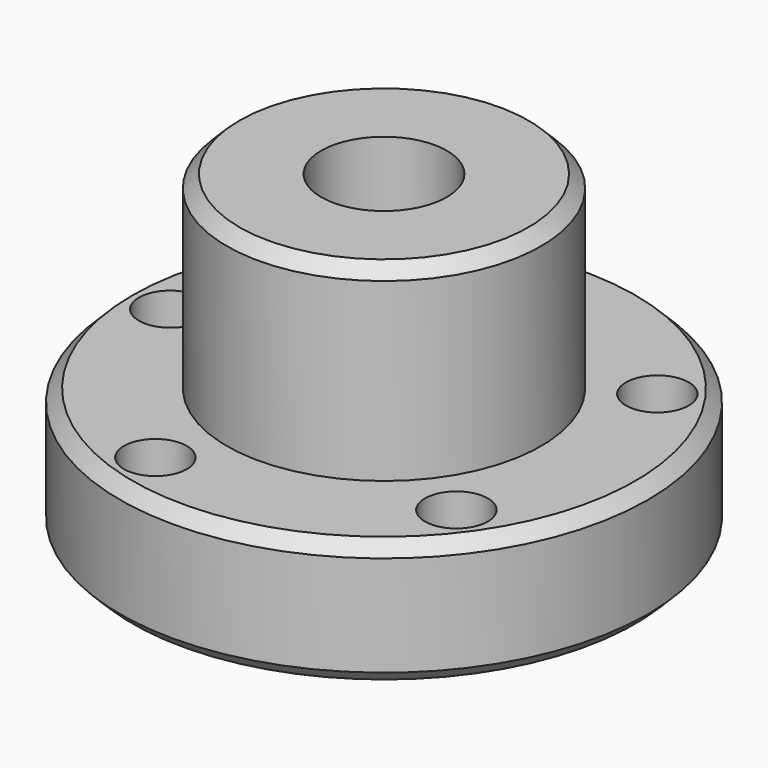
from build123d import *

# Parameters (mm, degrees)
F3_D     = 5
F3_DEPTH = 20


with BuildPart() as f1:
    # F0 (on Front) → F1 (revolve)
    with BuildSketch(Plane.XZ):
        Polygon((-5, 0), (-5, 25), (-11.5, 25), (-12.5, 24), (-12.5, 16), (-12.5, 10), (-20, 10), (-21, 9), (-21, 1), (-20, 0), align=None)
    revolve(axis=Axis((0, 0, 12.5), (0, 0, 1)))

    # F3
    with Locations(Plane.XY.offset(10)):
        with Locations((-17, 0), (-5.253289, 16.167961), (13.753289, 9.992349), (13.753289, -9.992349), (-5.253289, -16.167961)):
            Hole(F3_D / 2, depth=F3_DEPTH)


solid = f1.part
